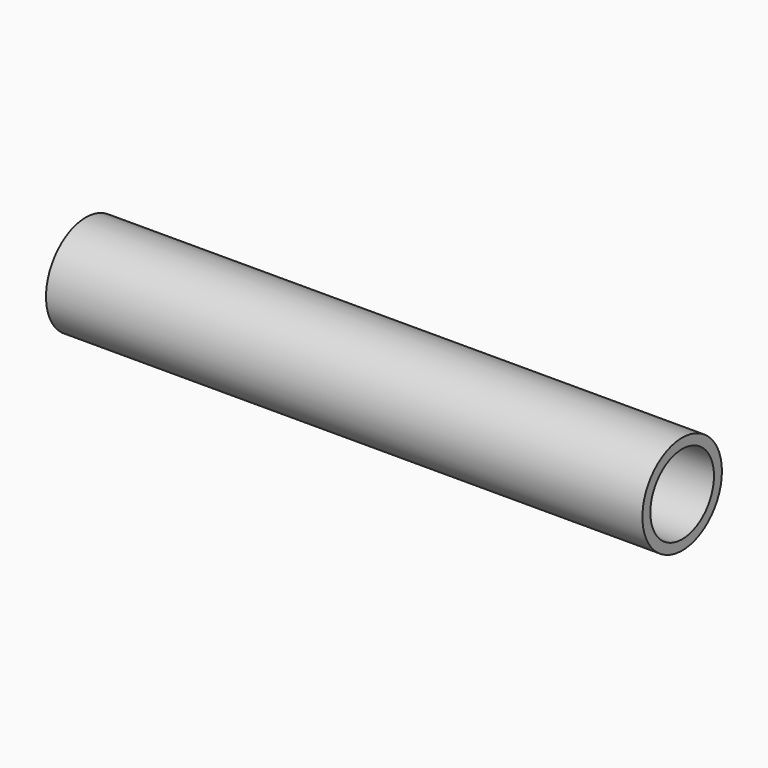
from build123d import *

# Parameters (mm, degrees)
F0_R     = 6.35
F1_DEPTH = 76.2
F2_R     = 5.08
F3_DEPTH = 38.1
F4_R     = 3.175
F5_DEPTH = 25.4
F6_R     = 2.286
F7_DEPTH = 25.4
F8_R     = 3.175
F9_DEPTH = 25.4


with BuildPart() as f1:
    # F0 (on Right) → F1 (new body)
    with BuildSketch(Plane.YZ):
        Circle(F0_R)
    extrude(amount=F1_DEPTH)

    # F2 (on face) → F3 (cut)
    with BuildSketch(Plane.YZ.offset(76.2)):
        Circle(F2_R)
    extrude(amount=-F3_DEPTH, mode=Mode.SUBTRACT)

    # F4 (on face) → F5 (cut)
    with BuildSketch(Plane.YZ.offset(38.1)):
        Circle(F4_R)
    extrude(amount=-F5_DEPTH, mode=Mode.SUBTRACT)

    # F6 (on face) → F7 (cut)
    with BuildSketch(Plane.YZ.offset(12.7)):
        Circle(F6_R)
    extrude(amount=-F7_DEPTH, mode=Mode.SUBTRACT)

    # F8 (on Front) → F9 (cut)
    with BuildSketch(Plane.XZ):
        with Locations((25.229068, 0)):
            Circle(F8_R)
    extrude(amount=-F9_DEPTH, mode=Mode.SUBTRACT)


solid = f1.part
